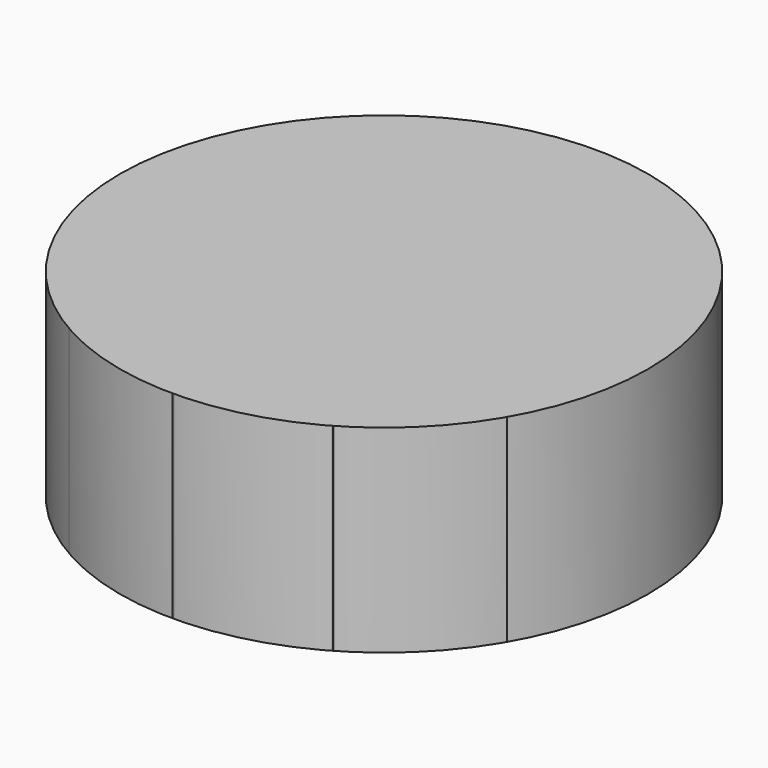
from build123d import *

# Parameters (mm, degrees)
F6_DEPTH = 152.4
F1_R     = 203.2


with BuildPart() as f6:
    # F5 (on face) → F6 (new body)
    with BuildSketch(Plane.XY):
        Polygon((175.976362049, -101.6), (203.2, 0), (175.976362049, 101.6), (101.6, 175.976362049), (0, 203.2), (-101.6, 175.976362049), (-175.976362049, 101.6), (-203.2, 0), (-175.976362049, -101.6), (-101.6, -175.976362049), (0, -203.2), (101.6, -175.976362049), align=None)
    extrude(amount=F6_DEPTH)


with BuildPart() as f6b:
    # F1 (on face) → F6, piece 2 (new body)
    with BuildSketch(Plane.XY):
        Circle(F1_R)
    extrude(amount=F6_DEPTH)


solid = Compound([f6.part, f6b.part])
